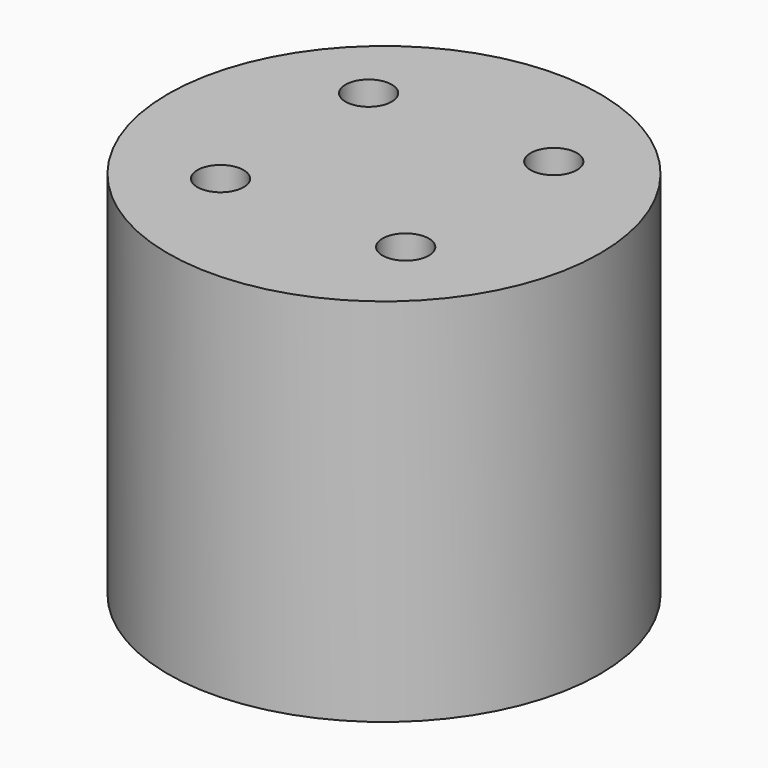
from build123d import *

# Parameters (mm, degrees)
F0_R     = 7
F0_R_2   = 6.1
F1_DEPTH = 10
F2_R     = 7
F3_DEPTH = 2
F4_R     = 0.75
F5_DEPTH = 2


with BuildPart() as f1:
    # F0 (on Top) → F1 (new body)
    with BuildSketch(Plane.XY):
        Circle(F0_R)
        Circle(F0_R_2, mode=Mode.SUBTRACT)
    extrude(amount=F1_DEPTH)

    # F2 (on face) → F3 (join)
    with BuildSketch(Plane.XY.offset(10)):
        Circle(F2_R)
    extrude(amount=F3_DEPTH)

    # F4 (on face) → F5 (cut, through all)
    with BuildSketch(Plane.XY.offset(12)):
        with Locations((2.938619, -2.795266)):
            Circle(F4_R)
        with Locations((2.938619, 3.204734)):
            Circle(F4_R)
        with Locations((-3.061381, -2.795266)):
            Circle(F4_R)
        with Locations((-3.061381, 3.204734)):
            Circle(F4_R)
    extrude(amount=-F5_DEPTH, mode=Mode.SUBTRACT)


solid = f1.part
